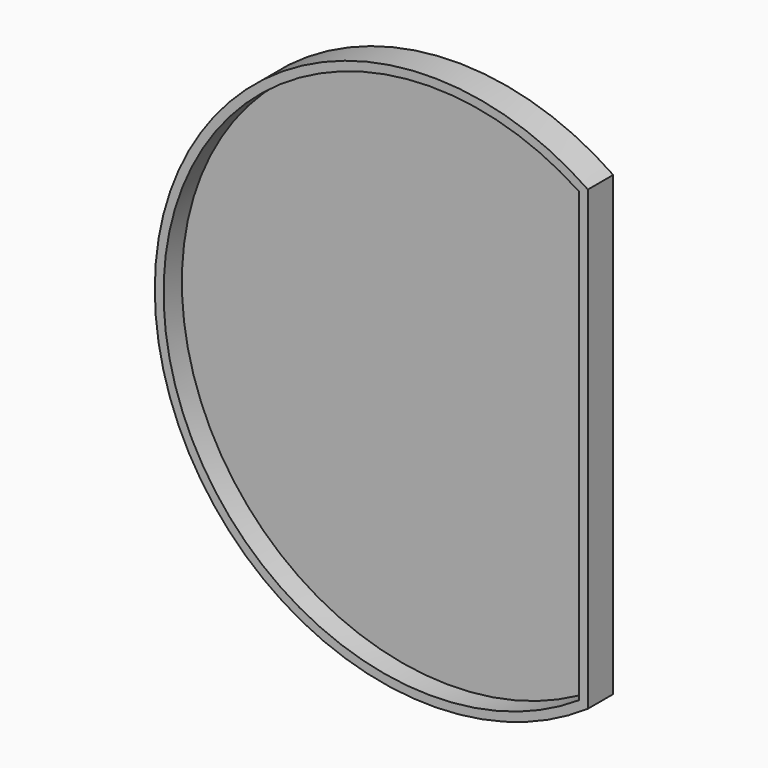
from build123d import *

# Parameters (mm, degrees)
F1_DEPTH = 9.144
F2_T     = -2.54


with BuildPart() as f1:
    # F0 (on Front) → F1 (new body)
    with BuildSketch(Plane.XZ):
        with BuildLine():
            Line((45.152169, -66.04), (45.152169, 66.04))
            ThreePointArc((45.152169, 66.04), (-80, 0), (45.152169, -66.04))
        make_face()
    extrude(amount=F1_DEPTH)

    # F2
    f2_openings = [f1.faces().sort_by_distance(p)[0] for p in [
        (-11.379823, -9.144, 0),
    ]]
    offset(amount=F2_T, openings=f2_openings)


solid = f1.part
